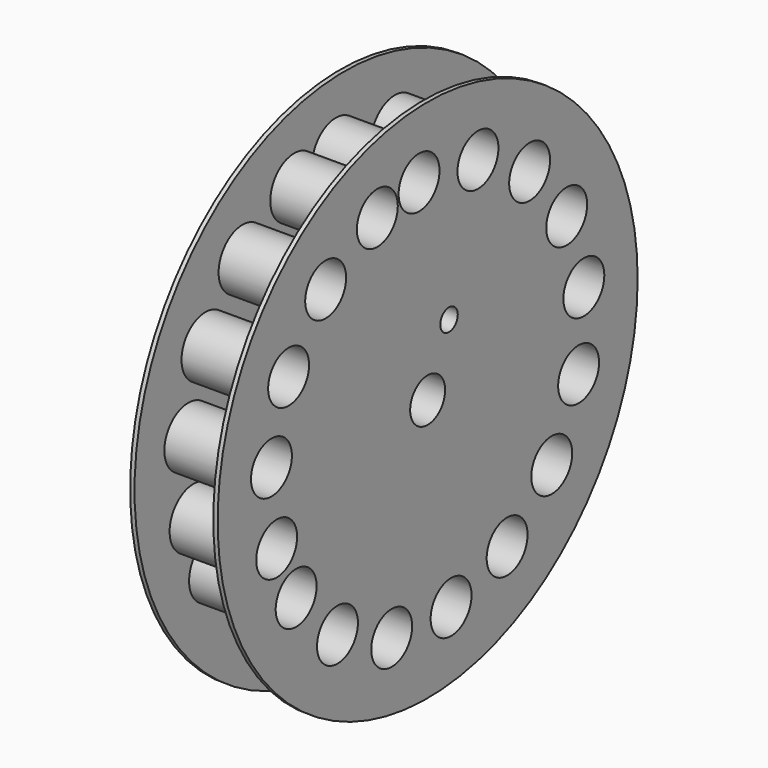
from build123d import *

# Parameters (mm, degrees)
F0_R     = 152.4
F0_R_2   = 14.844819
F0_R_3   = 12.7
F0_R_4   = 6.35
F1_DEPTH = 50.8
F2_T     = -2.54


with BuildPart() as f1:
    # F0 (on Right) → F1 (new body)
    with BuildSketch(Plane.YZ):
        Circle(F0_R)
        with Locations((-65.442513, -93.292669)):
            Circle(F0_R_2, mode=Mode.SUBTRACT)
        with Locations((-26.081348, -110.932448)):
            Circle(F0_R_2, mode=Mode.SUBTRACT)
        with Locations((-95.428113, -62.287397)):
            Circle(F0_R_2, mode=Mode.SUBTRACT)
        with Locations((-109.565798, -31.330185)):
            Circle(F0_R_2, mode=Mode.SUBTRACT)
        with Locations((17.016339, -112.679585)):
            Circle(F0_R_2, mode=Mode.SUBTRACT)
        with Locations((57.676194, -98.283779)):
            Circle(F0_R_2, mode=Mode.SUBTRACT)
        with Locations((90.07312, -69.807433)):
            Circle(F0_R_2, mode=Mode.SUBTRACT)
        with Locations((109.565798, -31.330185)):
            Circle(F0_R_2, mode=Mode.SUBTRACT)
        with Locations((-113.361627, 11.635555)):
            Circle(F0_R_2, mode=Mode.SUBTRACT)
        with Locations((-100.916801, 52.934336)):
            Circle(F0_R_2, mode=Mode.SUBTRACT)
        with Locations((-74.014216, 86.649526)):
            Circle(F0_R_2, mode=Mode.SUBTRACT)
        with Locations((-36.508049, 107.950947)):
            Circle(F0_R_2, mode=Mode.SUBTRACT)
        with Locations((-6.228412, 113.786869)):
            Circle(F0_R_2, mode=Mode.SUBTRACT)
        Circle(F0_R_3, mode=Mode.SUBTRACT)
        with Locations((15.513306, 34.798669)):
            Circle(F0_R_4, mode=Mode.SUBTRACT)
        with Locations((113.361627, 11.635555)):
            Circle(F0_R_2, mode=Mode.SUBTRACT)
        with Locations((100.916801, 52.934336)):
            Circle(F0_R_2, mode=Mode.SUBTRACT)
        with Locations((36.508049, 107.950947)):
            Circle(F0_R_2, mode=Mode.SUBTRACT)
        with Locations((74.014216, 86.649526)):
            Circle(F0_R_2, mode=Mode.SUBTRACT)
    extrude(amount=F1_DEPTH)

    # F2
    f2_openings = [f1.faces().sort_by_distance(p)[0] for p in [
        (25.4, -152.4, 0),
    ]]
    offset(amount=F2_T, openings=f2_openings)


solid = f1.part
